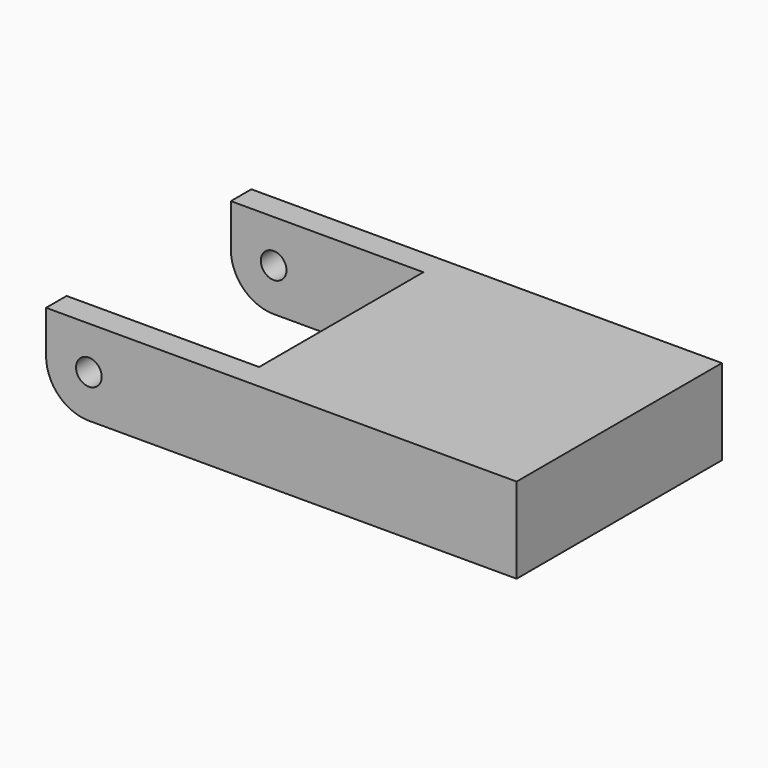
from build123d import *

# Parameters (mm, degrees)
F1_DEPTH = 10
F2_W     = 29.5
F2_H     = 24
F3_DEPTH = 8
F5_DEPTH = 24
F6_R     = 1.5
F7_DEPTH = 30
F8_R     = 5


with BuildPart() as f1:
    # F0 (on Top) → F1 (new body)
    with BuildSketch(Plane.XY):
        Polygon((-28.717543, -14.298958), (-28.717543, -17.298958), (26.282457, -17.298958), (26.282457, 12.701042), (-28.717543, 12.701042), (-28.717543, 9.701042), (-6.217543, 9.701042), (-6.217543, -14.298958), align=None)
    extrude(amount=F1_DEPTH)

    # F2 (on face) → F3 (cut)
    with BuildSketch(Plane(origin=(0, 0, 0), x_dir=(1, 0, 0), z_dir=(0, 0, -1))):
        with Locations((8.532457, 2.298958)):
            Rectangle(F2_W, F2_H)
    extrude(amount=-F3_DEPTH, mode=Mode.SUBTRACT)

    # F4 (on face) → F5 (join)
    with BuildSketch(Plane.XZ.offset(-9.701042)):
        Polygon((23.282457, 2.5), (23.282457, 5.5), (20.282457, 5), (20.282457, 3), align=None)
    extrude(amount=F5_DEPTH)

    # F6 (on face) → F7 (cut)
    with BuildSketch(Plane(origin=(0, 12.701042, 0), x_dir=(-1, 0, 0), z_dir=(0, 1, 0))):
        with Locations((23.717543, 5)):
            Circle(F6_R)
    extrude(amount=-F7_DEPTH, mode=Mode.SUBTRACT)

    # F8
    f8_edges = [f1.edges().sort_by_distance(p)[0] for p in [
        (-28.717543, 11.201042, 0),
        (-28.717543, -15.798958, 0),
    ]]
    fillet(f8_edges, radius=F8_R)


solid = f1.part
